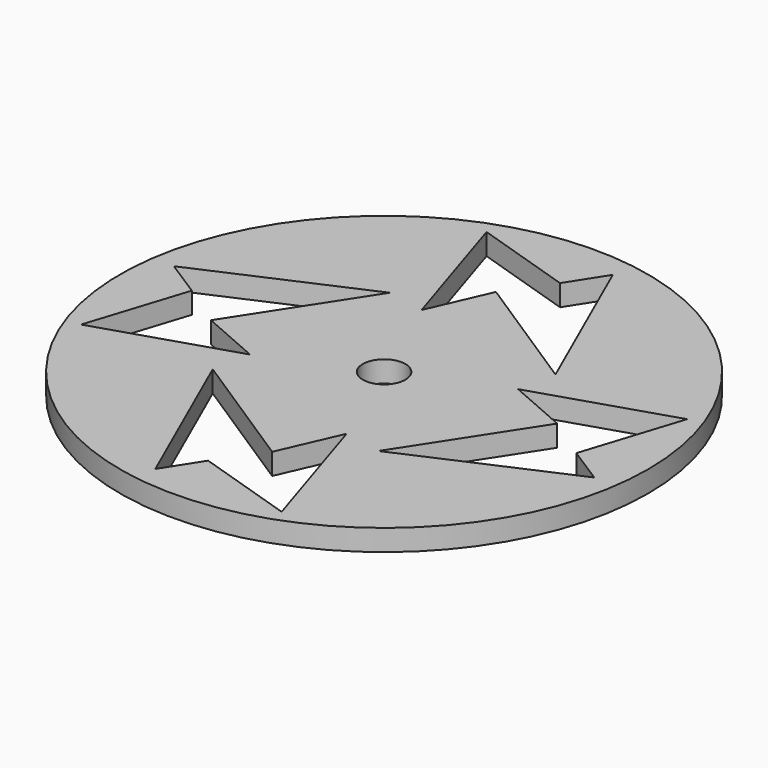
from build123d import *

# Parameters (mm, degrees)
F0_R     = 37.169628
F0_R_2   = 3
F1_DEPTH = 3


with BuildPart() as f1:
    # F0 (on Top) → F1 (new body)
    with BuildSketch(Plane.XY):
        with Locations((37.5, 37.5)):
            Circle(F0_R)
        Polygon((35.597906, 8.906693), (32.295928, 3.738383), (22.39473, 26.21703), (39.781636, 14.9479), (43.486301, 23.415705), (49.520258, 4.442429), align=None, mode=Mode.SUBTRACT)
        Polygon((71.261617, 32.295928), (48.78297, 22.39473), (60.0521, 39.781636), (51.584295, 43.486301), (70.557571, 49.520258), (66.093307, 35.597906), align=None, mode=Mode.SUBTRACT)
        Polygon((3.738383, 42.704072), (26.21703, 52.60527), (14.9479, 35.218364), (23.415705, 31.513699), (4.442429, 25.479742), (8.906693, 39.402094), align=None, mode=Mode.SUBTRACT)
        with Locations((37.5, 37.5)):
            Circle(F0_R_2, mode=Mode.SUBTRACT)
        Polygon((42.704072, 71.261617), (52.60527, 48.78297), (35.218364, 60.0521), (31.513699, 51.584295), (25.479742, 70.557571), (39.402094, 66.093307), align=None, mode=Mode.SUBTRACT)
    extrude(amount=F1_DEPTH)


solid = f1.part
